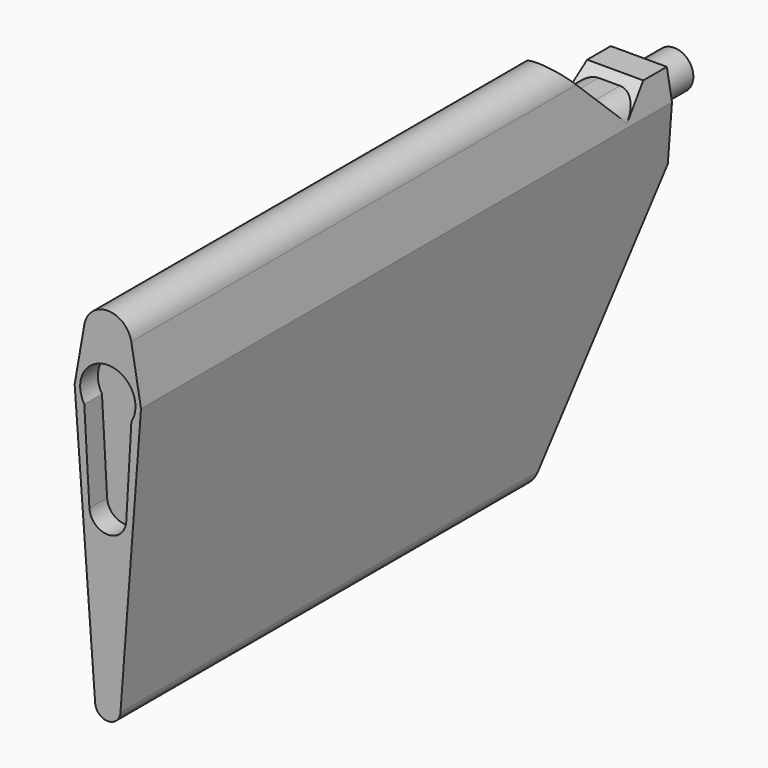
from build123d import *

# Parameters (mm, degrees)
PAD004_DEPTH      = 90
POCKET_DEPTH      = 4.551
POCKET_DEPTH_BACK = 4.451
SKETCH028_R       = 2.6
PAD011_DEPTH      = 6
POCKET014_DEPTH   = 3
FILLET011_R       = 3


with BuildPart() as part:
    # Sketch008 (on Face1 of CopyFusion010) → Pad004 (new body)
    with BuildSketch(Plane(origin=(-0.05, -99.1, -81.8), x_dir=(0, 0, -1), z_dir=(0, 1, 0))):
        with BuildLine():
            Line((0, -4.5), (-7.555119, -3.18194))
            ThreePointArc((-7.555119, 3.18194), (-10.23, 0), (-7.555119, -3.18194))
            Line((-7.555119, 3.18194), (0, 4.5))
            Line((37.178474, 1.715195), (0, 4.5))
            ThreePointArc((37.178474, -1.715195), (38.77, 0), (37.178474, 1.715195))
            Line((0, -4.5), (37.178474, -1.715195))
        make_face()
    extrude(amount=PAD004_DEPTH)

    # Sketch027 → Pocket (cut, two sides)
    with BuildSketch(Plane.YZ) as pocket_sk:
        Polygon((-9.1, -139.355119), (-41.57038, -139.355119), (-9.1, -89.355119), align=None)
        Polygon((-9.1, -27.8), (-70.1, -27.8), (-19.1, -78.8), (-14.1, -78.8), (-13.1, -77.8), (-9.1, -77.8), align=None)
    extrude(amount=-POCKET_DEPTH, mode=Mode.SUBTRACT)
    extrude(pocket_sk.sketch, amount=POCKET_DEPTH_BACK, mode=Mode.SUBTRACT)

    # Sketch028 (on Face8 of Pocket) → Pad011 (join)
    with BuildSketch(Plane(origin=(-0.05, -9.1, -81.8), x_dir=(0, 0, -1), z_dir=(0, 1, 0))):
        Circle(SKETCH028_R)
    extrude(amount=PAD011_DEPTH)

    # Sketch038 (on Face2 of Pad011) → Pocket014 (cut)
    with BuildSketch(Plane(origin=(-0.05, -99.1, -81.8), x_dir=(0, 0, -1), z_dir=(0, -1, 0))):
        with BuildLine():
            ThreePointArc((1.966812, 3.192828), (-3.75, 0), (1.966812, -3.192828))
            Line((14.142845, -2.495916), (1.966812, -3.192828))
            ThreePointArc((14.142845, -2.495916), (16.5, 0), (14.142845, 2.495916))
            Line((1.966812, 3.192828), (14.142845, 2.495916))
        make_face()
    extrude(amount=-POCKET014_DEPTH, mode=Mode.SUBTRACT)

    # Fillet011
    fillet011_edges = [part.edges().sort_by_distance(p)[0] for p in [
        (3.926622, -16.6, -78.8),
        (-4.026622, -16.6, -78.8),
    ]]
    fillet(fillet011_edges, radius=FILLET011_R)


solid = part.part
